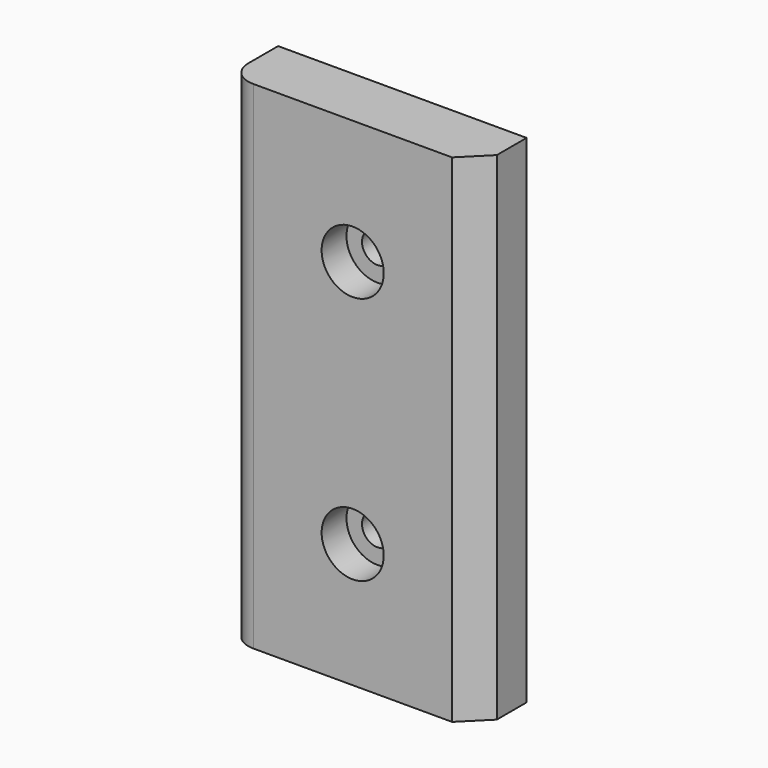
from build123d import *

# Parameters (mm, degrees)
F0_W           = 50.8
F0_H           = 101.6
F1_DEPTH       = 12.7
F3_D           = 6.35
F3_CBORE_D     = 12.7
F3_CBORE_DEPTH = 6.35
F4_R           = 5.08
F5_SIZE        = 5.08


with BuildPart() as f1:
    # F0 (on Front) → F1 (new body)
    with BuildSketch(Plane.XZ):
        Rectangle(F0_W, F0_H)
    extrude(amount=F1_DEPTH)

    # F3 (through all)
    with Locations(Plane.XZ.offset(12.7)):
        with Locations((0, 25.4), (0, -25.4)):
            CounterBoreHole(F3_D / 2, F3_CBORE_D / 2, F3_CBORE_DEPTH)

    # F4
    f4_edges = [f1.edges().sort_by_distance(p)[0] for p in [
        (-25.4, -12.7, 0),
    ]]
    fillet(f4_edges, radius=F4_R)

    # F5
    f5_edges = [f1.edges().sort_by_distance(p)[0] for p in [
        (25.4, -12.7, 0),
    ]]
    chamfer(f5_edges, length=F5_SIZE)


solid = f1.part
